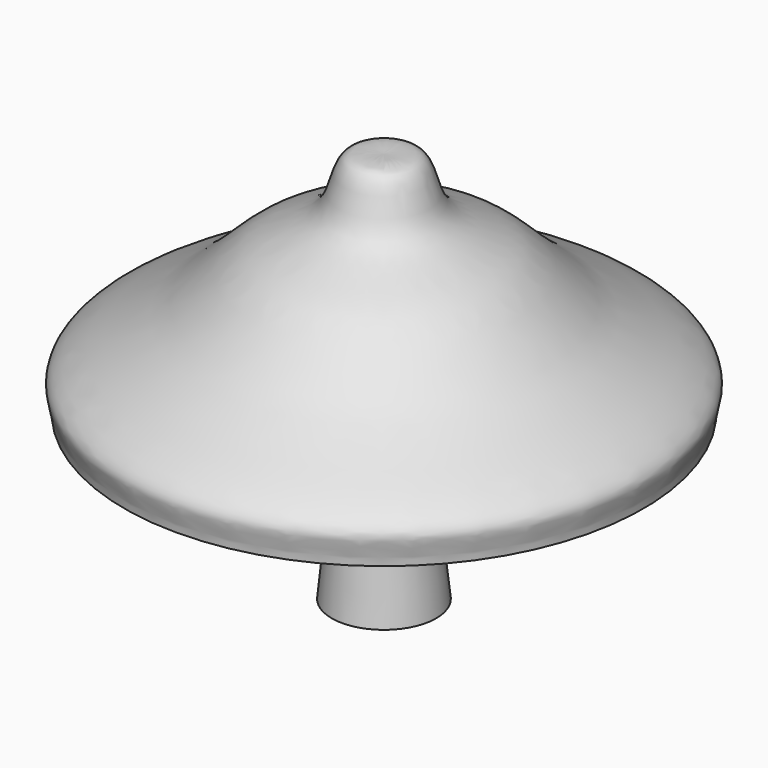
from build123d import *


with BuildPart() as f1:
    # F0 (on Right) → F1 (revolve)
    with BuildSketch(Plane.YZ):
        with BuildLine():
            Line((0, 41.1162637174), (0, -29.5406151563))
            Line((0, -29.5406151563), (9.4129415229, -29.5406151563))
            Line((9.4129415229, -29.5406151563), (5.4196935745, 10.881440714))
            Line((5.4196935745, 10.881440714), (46.7556864023, 0))
            add(Edge.make_bspline(
                [(46.7556864023, 0), (46.7155797399, 2.3233844605), (50.4544850576, 6.847598193), (30.0801802857, 14.8299527049), (21.2263853375, 27.7138256022), (7.6250903808, 30.4944493686), (7.485573995, 42.3274200027), (1.7987550441, 41.0785676659), (0, 41.1162637174)],
                knots=[0, 0, 0, 0, 0.1217527977, 0.3397919823, 0.5496327355, 0.7258314565, 0.8763297821, 1, 1, 1, 1], degree=3))
        make_face()
    revolve(axis=Axis((0, 0, 5.7878242806), (0, 0, -1)))


solid = f1.part
